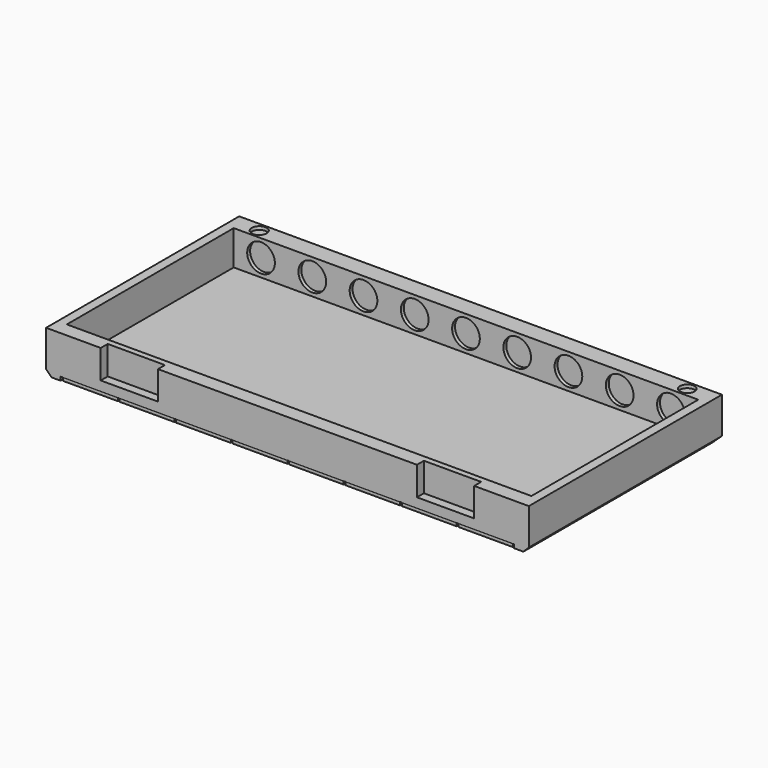
from build123d import *

# Parameters (mm, degrees)
SKETCH_W               = 265
SKETCH_H               = 132.5
PAD_DEPTH              = 23
SKETCH001_W            = 249
SKETCH001_H            = 124.5
POCKET_DEPTH           = 2
SKETCH002_W            = 30
SKETCH002_H            = 30
PAD001_DEPTH           = 2
LINEARPATTERN_COUNT    = 8
LINEARPATTERN_PITCH    = 31
CHAMFER_SIZE           = 3
SKETCH003_W            = 31.42
SKETCH003_H            = 15.71
POCKET001_DEPTH        = 4.8
SKETCH004_W            = 255
SKETCH004_H            = 114.5
POCKET002_DEPTH        = 19
SKETCH005_R            = 7.6
POCKET003_DEPTH        = 2
LINEARPATTERN001_COUNT = 8
LINEARPATTERN001_PITCH = 32.142857
SKETCH006_R            = 7.6
POCKET004_DEPTH        = 2
LINEARPATTERN002_COUNT = 9
LINEARPATTERN002_PITCH = 28.125
SKETCH007_R            = 4.125
SKETCH007_R_2          = 4.025
POCKET005_DEPTH        = 1.8


with BuildPart() as part:
    # Sketch → Pad (new body)
    with BuildSketch(Plane.XY):
        with Locations((0, 66.25)):
            Rectangle(SKETCH_W, SKETCH_H)
    extrude(amount=PAD_DEPTH)

    # Sketch001 (on Face5 of Pad) → Pocket (cut)
    with BuildSketch(Plane(origin=(0, 0, 0), x_dir=(1, 0, 0), z_dir=(0, 0, -1))):
        with Locations((0, -62.25)):
            Rectangle(SKETCH001_W, SKETCH001_H)
    extrude(amount=-POCKET_DEPTH, mode=Mode.SUBTRACT)

    # Sketch002 (on Face10 of Pocket) → Pad001 (join)
    with BuildSketch(Plane(origin=(0, 0, 2), x_dir=(1, 0, 0), z_dir=(0, 0, -1))):
        with Locations((-108.5, -15.5)):
            Rectangle(SKETCH002_W, SKETCH002_H)
        with Locations((-108.5, -46.5)):
            Rectangle(SKETCH002_W, SKETCH002_H)
        with Locations((-108.5, -77.5)):
            Rectangle(SKETCH002_W, SKETCH002_H)
        with Locations((-108.5, -108.5)):
            Rectangle(SKETCH002_W, SKETCH002_H)
    pad001 = extrude(amount=PAD001_DEPTH)

    # LinearPattern: Pad001 ×8
    with Locations(*[(i * LINEARPATTERN_PITCH, 0, 0) for i in range(1, LINEARPATTERN_COUNT)]):
        add(pad001)

    # Chamfer
    chamfer_edges = [part.edges().sort_by_distance(p)[0] for p in [
        (-132.5, 66.25, 0),
        (0, 132.5, 0),
        (132.5, 66.25, 0),
    ]]
    chamfer(chamfer_edges, length=CHAMFER_SIZE)

    # Sketch003 (on Face6 of Chamfer) → Pocket001 (cut)
    with BuildSketch(Plane.XZ):
        with Locations((-86.79, 15.145)):
            Rectangle(SKETCH003_W, SKETCH003_H)
        with Locations((86.79, 15.145)):
            Rectangle(SKETCH003_W, SKETCH003_H)
    extrude(amount=-POCKET001_DEPTH, mode=Mode.SUBTRACT)

    # Sketch004 (on Face4 of Pocket001) → Pocket002 (cut)
    with BuildSketch(Plane.XY.offset(23)):
        with Locations((0, 65.25)):
            Rectangle(SKETCH004_W, SKETCH004_H)
    extrude(amount=-POCKET002_DEPTH, mode=Mode.SUBTRACT)

    # Sketch005 (on Face17 of Pocket002) → Pocket003 (cut)
    with BuildSketch(Plane(origin=(0, 8, 0), x_dir=(-1, 0, 0), z_dir=(0, 1, 0))):
        with Locations((-112.5, 13.5)):
            Circle(SKETCH005_R)
    pocket003 = extrude(amount=-POCKET003_DEPTH, mode=Mode.SUBTRACT)

    # LinearPattern001: Pocket003 ×8
    with Locations(*[(-i * LINEARPATTERN001_PITCH, 0, 0) for i in range(1, LINEARPATTERN001_COUNT)]):
        add(pocket003, mode=Mode.SUBTRACT)

    # Sketch006 (on Face19 of Pocket002) → Pocket004 (cut)
    with BuildSketch(Plane.XZ.offset(-122.5)):
        with Locations((-112.5, 13.5)):
            Circle(SKETCH006_R)
    pocket004 = extrude(amount=-POCKET004_DEPTH, mode=Mode.SUBTRACT)

    # LinearPattern002: Pocket004 ×9
    with Locations(*[(i * LINEARPATTERN002_PITCH, 0, 0) for i in range(1, LINEARPATTERN002_COUNT)]):
        add(pocket004, mode=Mode.SUBTRACT)

    # Sketch007 (on Face4 of LinearPattern002) → Pocket005 (cut)
    with BuildSketch(Plane.XY.offset(23)):
        with Locations((-117.5, 127.5)):
            Circle(SKETCH007_R)
        with Locations((117.5, 127.5)):
            Circle(SKETCH007_R_2)
    extrude(amount=-POCKET005_DEPTH, mode=Mode.SUBTRACT)


solid = part.part
